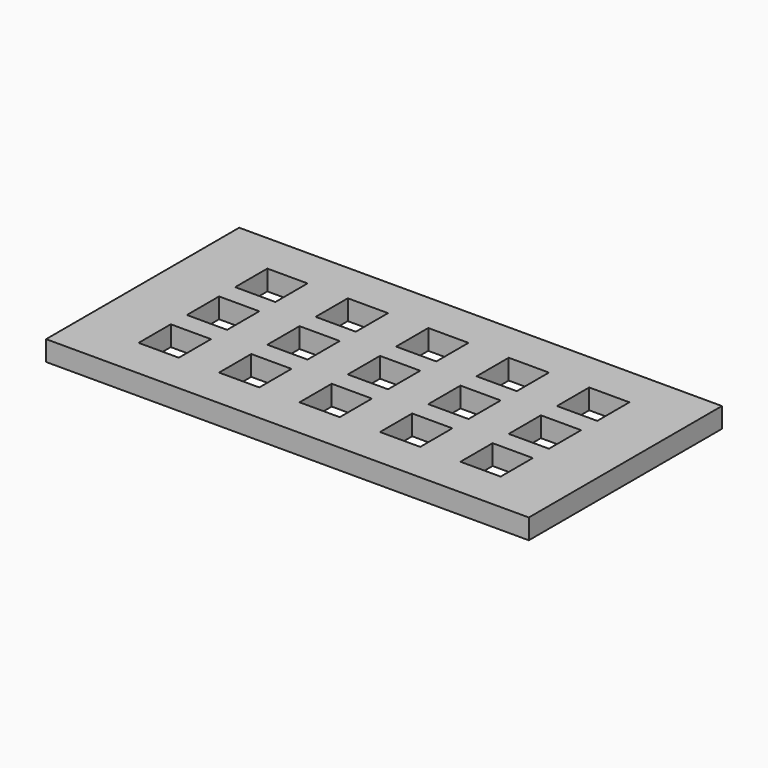
from build123d import *

# Parameters (mm, degrees)
F0_W     = 609.6
F0_H     = 304.8
F0_W_2   = 50.8
F0_H_2   = 50.8
F1_DEPTH = 3.175
F2_DEPTH = 25.4


with BuildPart() as f1:
    # F0 (on Top) → F1 (new body)
    with BuildSketch(Plane.XY):
        with Locations((304.8, 152.4)):
            Rectangle(F0_W, F0_H)
        with Locations((101.6, 76.2)):
            Rectangle(F0_W_2, F0_H_2, mode=Mode.SUBTRACT)
        with Locations((203.2, 76.2)):
            Rectangle(F0_W_2, F0_H_2, mode=Mode.SUBTRACT)
        with Locations((304.8, 76.2)):
            Rectangle(F0_W_2, F0_H_2, mode=Mode.SUBTRACT)
        with Locations((406.4, 76.2)):
            Rectangle(F0_W_2, F0_H_2, mode=Mode.SUBTRACT)
        with Locations((508, 76.2)):
            Rectangle(F0_W_2, F0_H_2, mode=Mode.SUBTRACT)
        with Locations((101.6, 152.4)):
            Rectangle(F0_W_2, F0_H_2, mode=Mode.SUBTRACT)
        with Locations((203.2, 152.4)):
            Rectangle(F0_W_2, F0_H_2, mode=Mode.SUBTRACT)
        with Locations((304.8, 152.4)):
            Rectangle(F0_W_2, F0_H_2, mode=Mode.SUBTRACT)
        with Locations((101.6, 228.6)):
            Rectangle(F0_W_2, F0_H_2, mode=Mode.SUBTRACT)
        with Locations((203.2, 228.6)):
            Rectangle(F0_W_2, F0_H_2, mode=Mode.SUBTRACT)
        with Locations((304.8, 228.6)):
            Rectangle(F0_W_2, F0_H_2, mode=Mode.SUBTRACT)
        with Locations((406.4, 152.4)):
            Rectangle(F0_W_2, F0_H_2, mode=Mode.SUBTRACT)
        with Locations((508, 152.4)):
            Rectangle(F0_W_2, F0_H_2, mode=Mode.SUBTRACT)
        with Locations((406.4, 228.6)):
            Rectangle(F0_W_2, F0_H_2, mode=Mode.SUBTRACT)
        with Locations((508, 228.6)):
            Rectangle(F0_W_2, F0_H_2, mode=Mode.SUBTRACT)
    extrude(amount=F1_DEPTH)

    # F0 (on Top) → F2 (join)
    with BuildSketch(Plane.XY):
        with Locations((304.8, 152.4)):
            Rectangle(F0_W, F0_H)
        with Locations((101.6, 76.2)):
            Rectangle(F0_W_2, F0_H_2, mode=Mode.SUBTRACT)
        with Locations((203.2, 76.2)):
            Rectangle(F0_W_2, F0_H_2, mode=Mode.SUBTRACT)
        with Locations((304.8, 76.2)):
            Rectangle(F0_W_2, F0_H_2, mode=Mode.SUBTRACT)
        with Locations((406.4, 76.2)):
            Rectangle(F0_W_2, F0_H_2, mode=Mode.SUBTRACT)
        with Locations((508, 76.2)):
            Rectangle(F0_W_2, F0_H_2, mode=Mode.SUBTRACT)
        with Locations((101.6, 152.4)):
            Rectangle(F0_W_2, F0_H_2, mode=Mode.SUBTRACT)
        with Locations((203.2, 152.4)):
            Rectangle(F0_W_2, F0_H_2, mode=Mode.SUBTRACT)
        with Locations((304.8, 152.4)):
            Rectangle(F0_W_2, F0_H_2, mode=Mode.SUBTRACT)
        with Locations((101.6, 228.6)):
            Rectangle(F0_W_2, F0_H_2, mode=Mode.SUBTRACT)
        with Locations((203.2, 228.6)):
            Rectangle(F0_W_2, F0_H_2, mode=Mode.SUBTRACT)
        with Locations((304.8, 228.6)):
            Rectangle(F0_W_2, F0_H_2, mode=Mode.SUBTRACT)
        with Locations((406.4, 152.4)):
            Rectangle(F0_W_2, F0_H_2, mode=Mode.SUBTRACT)
        with Locations((508, 152.4)):
            Rectangle(F0_W_2, F0_H_2, mode=Mode.SUBTRACT)
        with Locations((406.4, 228.6)):
            Rectangle(F0_W_2, F0_H_2, mode=Mode.SUBTRACT)
        with Locations((508, 228.6)):
            Rectangle(F0_W_2, F0_H_2, mode=Mode.SUBTRACT)
    extrude(amount=F2_DEPTH)


solid = f1.part
